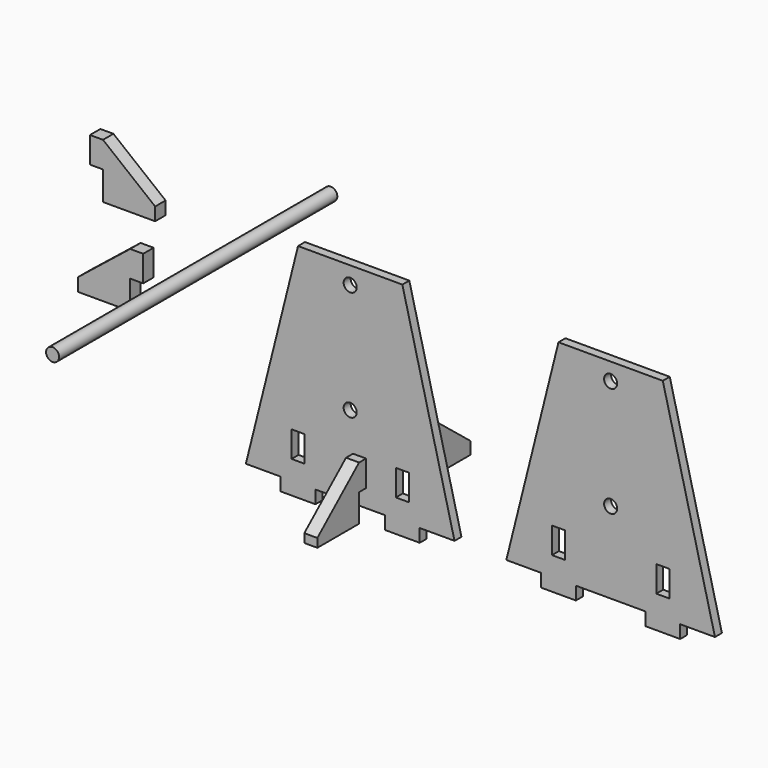
from build123d import *

# Parameters (mm, degrees)
F0_R      = 9.525
F0_W      = 50.8
F0_H      = 19.05
F1_DEPTH  = 12.7
F3_R      = 9.525
F4_DEPTH  = 508
F5_W      = 76.2
F5_H      = 17.78
F5_W_2    = 12.7
F5_H_2    = 38.1
F6_DEPTH  = 19.05
F7_W      = 76.2
F7_H      = 12.7
F7_W_2    = 12.7
F7_H_2    = 38.1
F8_DEPTH  = 19.05
F9_W      = 19.05
F9_H      = 38.1
F9_W_2    = 76.2
F9_H_2    = 19.05
F10_DEPTH = 19.05


with BuildPart() as f1:
    # F0 (on Front) → F1 (new body)
    with BuildSketch(Plane.XZ):
        Polygon((64.697462, -51.691061), (-87.702538, -51.691061), (-163.902538, -356.491061), (-113.102538, -356.491061), (-62.302538, -356.491061), (-11.502538, -356.491061), (39.297462, -356.491061), (90.097462, -356.491061), (140.897462, -356.491061), align=None)
        Polygon((-97.227538, -290.451061), (-87.702538, -290.451061), (-78.177538, -290.451061), (-78.177538, -328.551061), (-87.702538, -328.551061), (-97.227538, -328.551061), align=None, mode=Mode.SUBTRACT)
        Polygon((55.172462, -290.451061), (64.697462, -290.451061), (74.222462, -290.451061), (74.222462, -328.551061), (64.697462, -328.551061), (55.172462, -328.551061), align=None, mode=Mode.SUBTRACT)
        with Locations((-11.502538, -237.822261)):
            Circle(F0_R, mode=Mode.SUBTRACT)
        with Locations((-11.502538, -77.091061)):
            Circle(F0_R, mode=Mode.SUBTRACT)
        with Locations((-87.702538, -366.016061)):
            Rectangle(F0_W, F0_H)
        with Locations((64.697462, -366.016061)):
            Rectangle(F0_W, F0_H)
    extrude(amount=F1_DEPTH)


with BuildPart() as f2_1:
    # F2: copy of F1
    add(f1.part.moved(Location((380.492, 0, 0))))


with BuildPart() as f4:
    # F3 (on Front) → F4 (new body)
    with BuildSketch(Plane.XZ):
        with Locations((-50.011389, 22.366224)):
            Circle(F3_R)
    extrude(amount=F4_DEPTH)


with BuildPart() as f6:
    # F5 (on Right) → F6 (new body)
    with BuildSketch(Plane.YZ):
        Polygon((168.91707, -341.460848), (92.71707, -280.500848), (92.71707, -318.600848), (92.71707, -341.460848), align=None)
        with Locations((130.81707, -350.350848)):
            Rectangle(F5_W, F5_H)
        with Locations((86.36707, -299.550848)):
            Rectangle(F5_W_2, F5_H_2)
    extrude(amount=F6_DEPTH)


with BuildPart() as f8:
    # F7 (on face) → F8 (new body)
    with BuildSketch(Plane.YZ.offset(19.05)):
        Polygon((-58.476723, -270.578951), (-134.676723, -336.618951), (-58.476723, -336.618951), (-58.476723, -308.678951), align=None)
        with Locations((-96.576723, -342.968951)):
            Rectangle(F7_W, F7_H)
        with Locations((-52.126723, -289.628951)):
            Rectangle(F7_W_2, F7_H_2)
    extrude(amount=F8_DEPTH)


with BuildPart() as f10:
    # F9 (on Front) → F10 (new body)
    with BuildSketch(Plane.XZ):
        Polygon((-291.337988, -64.442254), (-367.537988, -3.482254), (-367.537988, -41.582254), (-367.537988, -64.442254), align=None)
        with Locations((-377.062988, -22.532254)):
            Rectangle(F9_W, F9_H)
        with Locations((-329.437988, -73.967254)):
            Rectangle(F9_W_2, F9_H_2)
        Polygon((-327.857387, -130.960729), (-404.057387, -191.920729), (-327.857387, -191.920729), (-327.857387, -169.060729), align=None)
        with Locations((-365.957387, -201.445729)):
            Rectangle(F9_W_2, F9_H_2)
        with Locations((-318.332387, -150.010729)):
            Rectangle(F9_W, F9_H)
    extrude(amount=F10_DEPTH)


solid = Compound([f1.part, f2_1.part, f4.part, f6.part, f8.part, f10.part])
